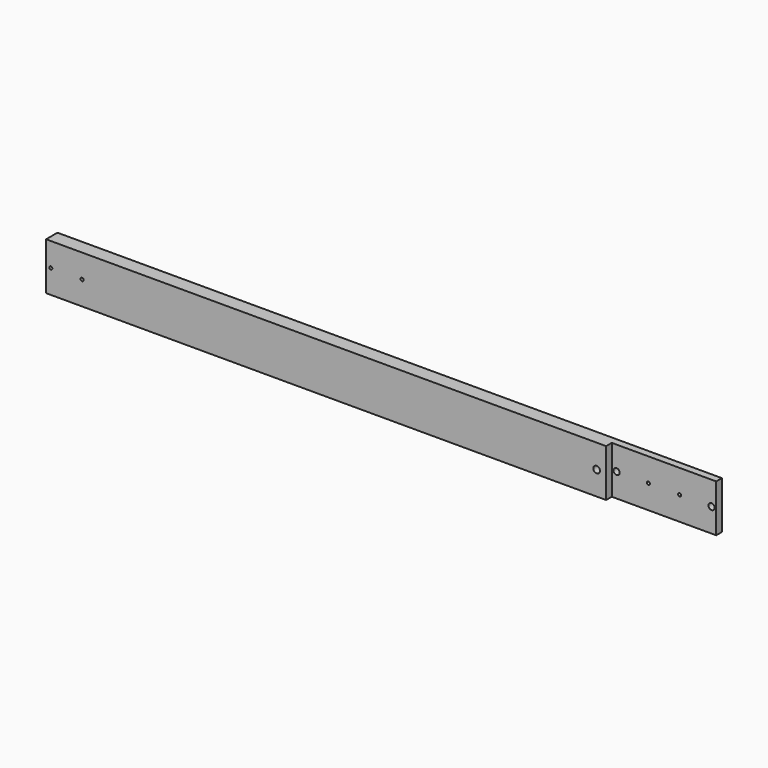
from build123d import *

# Parameters (mm, degrees)
F0_W     = 700
F0_H     = 50
F1_DEPTH = 15
F2_W     = 110
F2_H     = 7.5
F3_DEPTH = 50.001
F5_D     = 3.3
F7_D     = 3.3
F9_D     = 7
F11_D    = 6.5


with BuildPart() as f1:
    # F0 (on Front) → F1 (new body)
    with BuildSketch(Plane.XZ):
        Rectangle(F0_W, F0_H)
    extrude(amount=F1_DEPTH)

    # F2 (on face) → F3 (cut, through all)
    with BuildSketch(Plane(origin=(0, 0, -25), x_dir=(1, 0, 0), z_dir=(0, 0, -1))):
        with Locations((295, 11.25)):
            Rectangle(F2_W, F2_H)
    extrude(amount=-F3_DEPTH, mode=Mode.SUBTRACT)

    # F5 (through all)
    with Locations(Plane(origin=(0, 0, 0), x_dir=(-1, 0, 0), z_dir=(0, 1, 0))):
        with Locations((-311.5, 0), (-278.5, 0)):
            Hole(F5_D / 2)

    # F7 (through all)
    with Locations(Plane(origin=(0, 0, 0), x_dir=(-1, 0, 0), z_dir=(0, 1, 0))):
        with Locations((312, 0), (345, 0)):
            Hole(F7_D / 2)

    # F9 (through all)
    with Locations(Plane(origin=(0, 0, 0), x_dir=(-1, 0, 0), z_dir=(0, 1, 0))):
        with Locations((-230, 0)):
            Hole(F9_D / 2)

    # F11 (through all)
    with Locations(Plane(origin=(0, 0, 0), x_dir=(-1, 0, 0), z_dir=(0, 1, 0))):
        with Locations((-345, 0), (-245, 0)):
            Hole(F11_D / 2)


solid = f1.part
